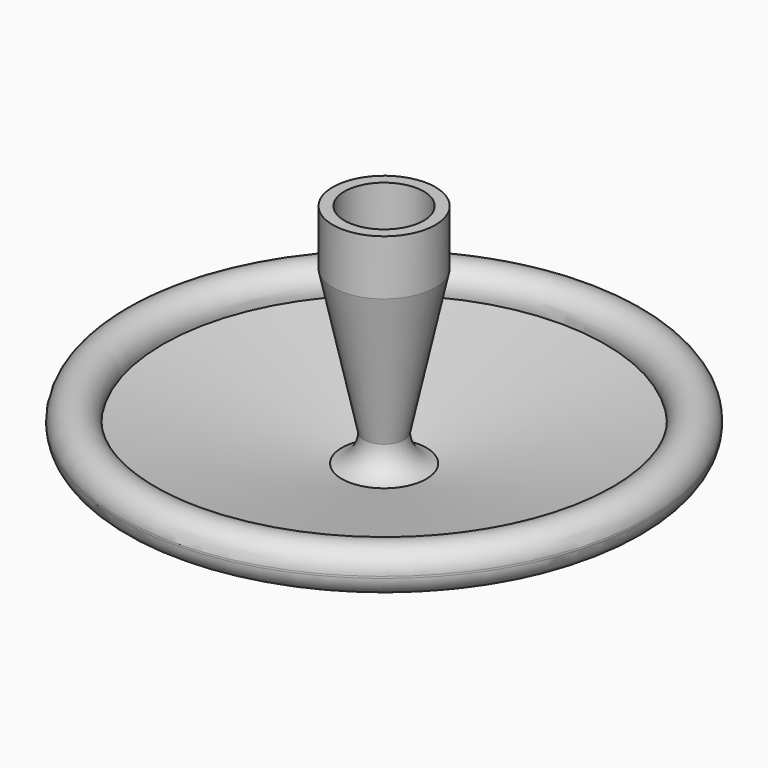
from build123d import *


with BuildPart() as f1:
    # F0 (on Front) → F1 (revolve)
    with BuildSketch(Plane.XZ):
        with BuildLine():
            Line((6.166445, 28.575), (4.762754, 28.575))
            Line((4.762754, 28.575), (4.762754, 19.05))
            Line((4.762754, 19.05), (1.587754, 19.05))
            Line((1.587754, 19.05), (1.587754, 7.416361))
            Line((1.587754, 7.416361), (1.587754, 0))
            Line((1.587754, 0), (27.974581, 3.457336))
            ThreePointArc((27.974581, 3.457336), (30.464123, 3.530209), (31.75, 5.663198))
            Line((31.75, 5.663198), (31.75, 5.886738))
            ThreePointArc((31.75, 5.886738), (28.85973, 8.358248), (26.596049, 5.302472))
            Line((26.596049, 5.302472), (5.082258, 1.326307))
            ThreePointArc((5.082258, 1.326307), (3.203314, 2.517782), (2.43266, 4.604917))
            Line((2.43266, 4.604917), (6.166445, 21.947781))
            Line((6.166445, 21.947781), (6.166445, 28.575))
        make_face()
    revolve(axis=Axis((0, 0, 14.2875), (0, 0, 1)))


solid = f1.part
